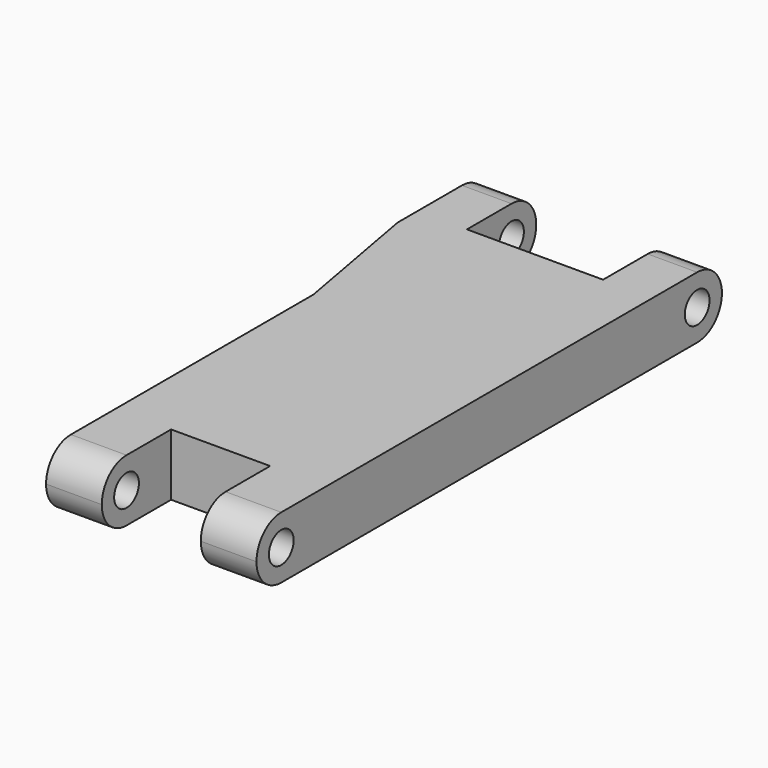
from build123d import *

# Parameters (mm, degrees)
F1_DEPTH      = 2.5
F2_R          = 1.25
F3_DEPTH      = 10.501
F3_DEPTH_BACK = 8.501


with BuildPart() as f1:
    # F0 (on Top) → F1 (new body, symmetric)
    with BuildSketch(Plane.XY):
        Polygon((-8.5, 27), (-8.5, 0), (-4, 0), (-4, 7), (4, 7), (4, 0), (8.5, 0), (8.5, 47), (4.5, 47), (4.5, 40), (-6.5, 40), (-6.5, 47), (-10.5, 47), (-10.5, 38), align=None)
    extrude(amount=F1_DEPTH, both=True)

    # F2 (on Right) → F3 (cut, two sides)
    with BuildSketch(Plane.YZ) as f3_sk:
        with Locations((2.5, 0)):
            Circle(F2_R)
        with BuildLine():
            ThreePointArc((2.5, -2.5), (0.732233047, -1.767766953), (0, 0))
            Line((0, 0), (0, -2.5))
            Line((0, -2.5), (2.5, -2.5))
        make_face()
        with BuildLine():
            ThreePointArc((0, 0), (0.732233047, 1.767766953), (2.5, 2.5))
            Line((2.5, 2.5), (0, 2.5))
            Line((0, 2.5), (0, 0))
        make_face()
        with Locations((44.5, 0)):
            Circle(F2_R)
        with BuildLine():
            ThreePointArc((44.5, 2.5), (46.267766953, 1.767766953), (47, 0))
            Line((47, 0), (47, 2.5))
            Line((47, 2.5), (44.5, 2.5))
        make_face()
        with BuildLine():
            ThreePointArc((47, 0), (46.267766953, -1.767766953), (44.5, -2.5))
            Line((44.5, -2.5), (47, -2.5))
            Line((47, -2.5), (47, 0))
        make_face()
    extrude(amount=-F3_DEPTH, mode=Mode.SUBTRACT)
    extrude(f3_sk.sketch, amount=F3_DEPTH_BACK, mode=Mode.SUBTRACT)


solid = f1.part
